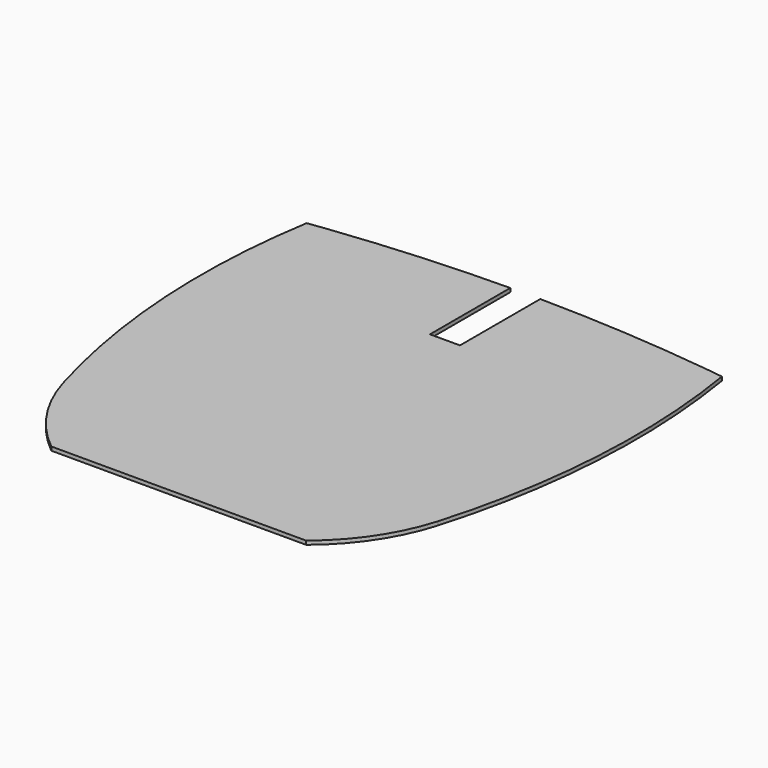
from build123d import *

# Parameters (mm, degrees)
F1_DEPTH = 0.5


with BuildPart() as f1:
    # F0 (on Top) → F1 (new body)
    with BuildSketch(Plane.XY):
        with BuildLine():
            ThreePointArc((-2, 57.790434), (-13.520553, 57.362383), (-25, 56.3))
            ThreePointArc((-25, 56.3), (-26.350558, 56.132887), (-27.7, 55.956987))
            ThreePointArc((-27.7, 55.956987), (-28.812855, 33.827216), (-25, 12))
            ThreePointArc((-25, 12), (-21.917468, 5.388354), (-17, 0))
            Line((-17, 0), (17, 0))
            ThreePointArc((17, 0), (21.917468, 5.388354), (25, 12))
            ThreePointArc((25, 12), (28.812855, 33.827216), (27.7, 55.956987))
            ThreePointArc((27.7, 55.956987), (26.350558, 56.132887), (25, 56.3))
            ThreePointArc((25, 56.3), (13.520553, 57.362383), (2, 57.790434))
            Line((2, 57.790434), (2, 44.4))
            Line((2, 44.4), (-2, 44.4))
            Line((-2, 44.4), (-2, 57.790434))
        make_face()
    extrude(amount=F1_DEPTH)


solid = f1.part
